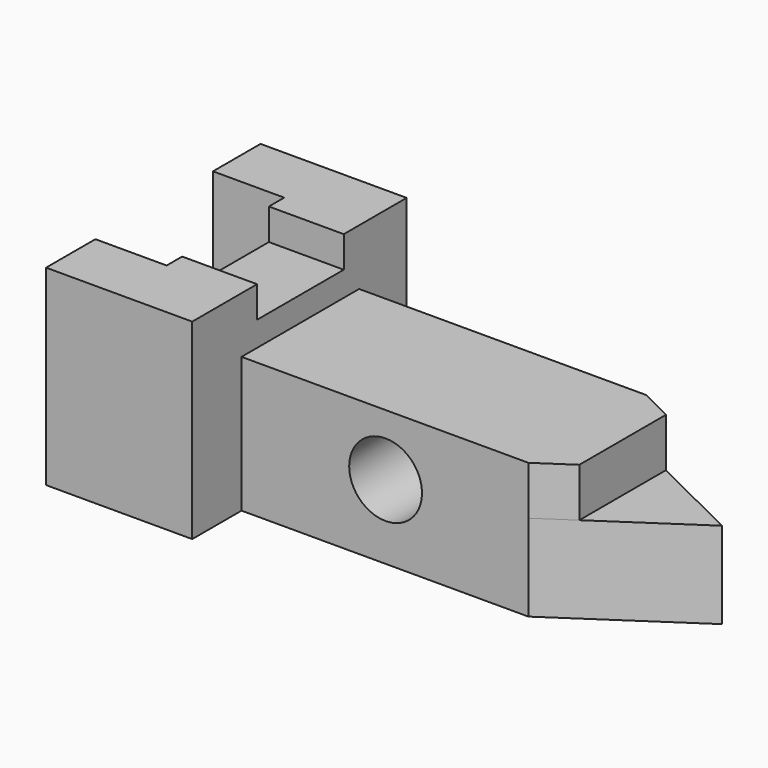
from build123d import *

# Parameters (mm, degrees)
F1_DEPTH = 30.226
F3_DEPTH = 17.018
F5_DEPTH = 25.654
F7_DEPTH = 10.922
F9_DEPTH = 10.922
F11_D    = 25.4


with BuildPart() as f1:
    # F0 (on Top) → F1 (new body)
    with BuildSketch(Plane.XY):
        Polygon((-27.542058, -29.474055), (-13.702727, -29.474055), (72.541967, -29.474055), (116.490424, 0), (72.541967, 21.806085), (-27.542058, 21.806085), (-27.542058, 42.54153), (-78.533083, 42.54153), (-78.533083, 21.806085), (-61.017197, 21.806085), (-53.670939, 21.806085), (-53.670939, -29.474055), (-78.533083, -29.474055), (-78.533083, -50.979555), (-27.542058, -50.979555), align=None)
    extrude(amount=F1_DEPTH)

    # F2 (on face) → F3 (join)
    with BuildSketch(Plane.XY.offset(30.226)):
        Polygon((84.1086, -21.716887), (84.1086, 16.067022), (72.541967, 21.806085), (-27.542058, 21.806085), (-27.542058, -29.474055), (72.541967, -29.474055), align=None)
    extrude(amount=F3_DEPTH)

    # F4 (on face) → F5 (join)
    with BuildSketch(Plane.XY.offset(30.226)):
        Polygon((-27.542058, 42.54153), (-78.533083, 42.54153), (-78.533083, 21.806085), (-53.670939, 21.806085), (-53.670939, -29.474055), (-78.533083, -29.474055), (-78.533083, -50.979555), (-27.542058, -50.979555), align=None)
    extrude(amount=F5_DEPTH)

    # F6 (on face) → F7 (join)
    with BuildSketch(Plane.XY.offset(55.88)):
        Polygon((-53.670939, 21.806085), (-53.670939, 15.110248), (-27.542058, 15.110248), (-27.542058, 42.54153), (-78.533083, 42.54153), (-78.533083, 21.806085), align=None)
    extrude(amount=F7_DEPTH)

    # F8 (on face) → F9 (join)
    with BuildSketch(Plane.XY.offset(55.88)):
        Polygon((-53.670939, -22.706658), (-53.670939, -29.474055), (-78.533083, -29.474055), (-78.533083, -50.979555), (-27.542058, -50.979555), (-27.542058, -22.706658), align=None)
    extrude(amount=F9_DEPTH)

    # F11 (through all)
    with Locations(Plane.XZ.offset(29.474055)):
        with Locations((22.720842, 25.850486)):
            Hole(F11_D / 2)


solid = f1.part
